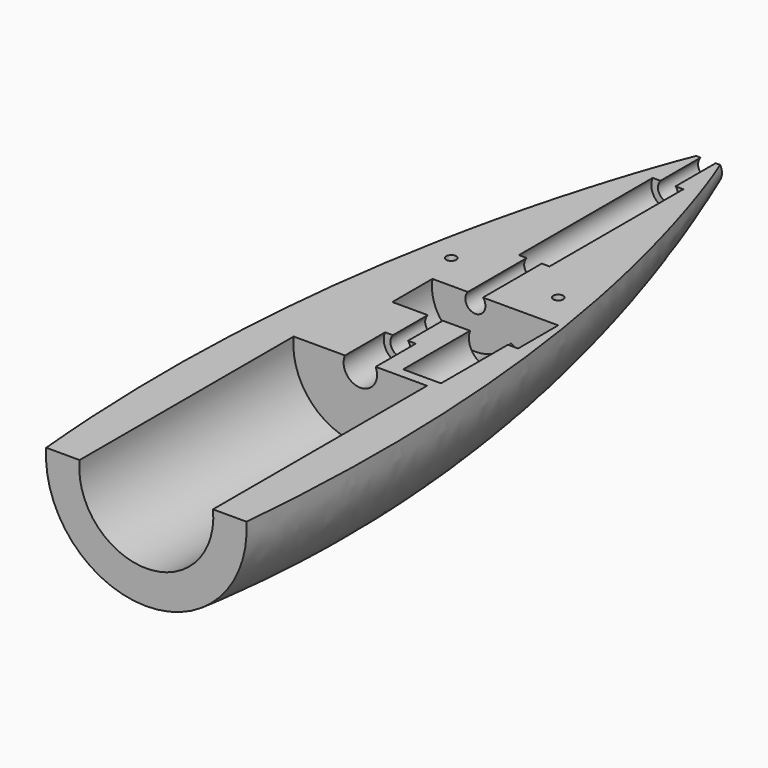
from build123d import *

# Parameters (mm, degrees)
SKETCH014_R       = 20.0437
PAD009_DEPTH      = 100
PAD_DEPTH         = 10
SKETCH006_R       = 3.009992
PAD002_DEPTH      = 100
FUSION_ROLL_ANGLE = 90
SKETCH011_R       = 5
PAD007_DEPTH      = 50
SKETCH010_R       = 5
PAD006_DEPTH      = 50
SKETCH008_R       = 13
PAD004_DEPTH      = 15
SKETCH009_R       = 9
PAD005_DEPTH      = 15
SKETCH013_R       = 6
PAD008_DEPTH      = 26
BOX_W             = 50
BOX_H             = 240
BOX_DEPTH         = 100
BOX_PITCH_ANGLE   = -90
SKETCH_R          = 4.120219
SKETCH001_R       = 27
SKETCH002_R       = 30
SKETCH015_R       = 1.5
POCKET_DEPTH      = 5


with BuildPart() as buco:
    # Sketch014 → Pad009 (new body)
    with BuildSketch(Plane.XZ.offset(40)):
        Circle(SKETCH014_R)
    extrude(amount=PAD009_DEPTH)


with BuildPart() as pad:
    # InvoluteGear → Pad (new body)
    with BuildSketch(Plane.XY):
        with BuildLine():
            Line((8.355513, -1.029758), (9.548181, -1.175965))
            add(Edge.make_bspline(
                [(9.548181, -1.175965), (9.5967, -1.178924), (9.742908, -1.18188), (9.988316, -1.135943)],
                knots=[0, 0, 0, 0, 1, 1, 1, 1], degree=3))
            add(Edge.make_bspline(
                [(9.988316, -1.135943), (10.281884, -1.080014), (10.705563, -0.954393), (11.230767, -0.676657)],
                knots=[0, 0, 0, 0, 1, 1, 1, 1], degree=3))
            ThreePointArc((11.230767, -0.676657), (11.251135, 0), (11.230767, 0.676657))
            add(Edge.make_bspline(
                [(11.230767, 0.676657), (10.705563, 0.954393), (10.281884, 1.080014), (9.988316, 1.135943)],
                knots=[0, 0, 0, 0, 1, 1, 1, 1], degree=3))
            add(Edge.make_bspline(
                [(9.988316, 1.135943), (9.742908, 1.18188), (9.5967, 1.178924), (9.548181, 1.175965)],
                knots=[0, 0, 0, 0, 1, 1, 1, 1], degree=3))
            Line((9.548181, 1.175965), (8.355513, 1.029758))
            ThreePointArc((8.355513, 1.029758), (7.956052, 1.132981), (7.734481, 1.48102))
            ThreePointArc((7.734481, 1.48102), (7.646167, 1.884611), (7.536808, 2.283014))
            ThreePointArc((7.536808, 2.283014), (7.571257, 2.694156), (7.876992, 2.971196))
            Line((7.876992, 2.971196), (9.000992, 3.395996))
            add(Edge.make_bspline(
                [(9.000992, 3.395996), (9.04533, 3.415923), (9.176163, 3.481252), (9.372113, 3.635975)],
                knots=[0, 0, 0, 0, 1, 1, 1, 1], degree=3))
            add(Edge.make_bspline(
                [(9.372113, 3.635975), (9.606064, 3.821924), (9.922834, 4.130051), (10.258808, 4.620047)],
                knots=[0, 0, 0, 0, 1, 1, 1, 1], degree=3))
            ThreePointArc((10.258808, 4.620047), (9.962385, 5.228663), (9.629892, 5.818348))
            add(Edge.make_bspline(
                [(9.629892, 5.818348), (9.035777, 5.820196), (8.602248, 5.734535), (8.316315, 5.647629)],
                knots=[0, 0, 0, 0, 1, 1, 1, 1], degree=3))
            add(Edge.make_bspline(
                [(8.316315, 5.647629), (8.077669, 5.574257), (7.949583, 5.503695), (7.907996, 5.478526)],
                knots=[0, 0, 0, 0, 1, 1, 1, 1], degree=3))
            Line((7.907996, 5.478526), (6.919887, 4.794806))
            ThreePointArc((6.919887, 4.794806), (6.518211, 4.700567), (6.160279, 4.905771))
            ThreePointArc((6.160279, 4.905771), (5.894522, 5.222091), (5.612542, 5.524038))
            ThreePointArc((5.612542, 5.524038), (5.451978, 5.904095), (5.593946, 6.291484))
            Line((5.593946, 6.291484), (6.391785, 7.189975))
            add(Edge.make_bspline(
                [(6.391785, 7.189975), (6.421783, 7.228224), (6.50727, 7.346872), (6.608872, 7.574934)],
                knots=[0, 0, 0, 0, 1, 1, 1, 1], degree=3))
            add(Edge.make_bspline(
                [(6.608872, 7.574934), (6.72961, 7.848306), (6.866903, 8.268349), (6.936681, 8.858355)],
                knots=[0, 0, 0, 0, 1, 1, 1, 1], degree=3))
            ThreePointArc((6.936681, 8.858355), (6.391373, 9.259502), (5.822925, 9.627125))
            add(Edge.make_bspline(
                [(5.822925, 9.627125), (5.296003, 9.352662), (4.951941, 9.075343), (4.739148, 8.865511)],
                knots=[0, 0, 0, 0, 1, 1, 1, 1], degree=3))
            add(Edge.make_bspline(
                [(4.739148, 8.865511), (4.561934, 8.68964), (4.481311, 8.567635), (4.456185, 8.526023)],
                knots=[0, 0, 0, 0, 1, 1, 1, 1], degree=3))
            Line((4.456185, 8.526023), (3.898999, 7.461421))
            ThreePointArc((3.898999, 7.461421), (3.587127, 7.191309), (3.17483, 7.206669))
            ThreePointArc((3.17483, 7.206669), (2.792513, 7.363253), (2.402511, 7.499571))
            ThreePointArc((2.402511, 7.499571), (2.083717, 7.761477), (2.029395, 8.170468))
            Line((2.029395, 8.170468), (2.318297, 9.336817))
            add(Edge.make_bspline(
                [(2.318297, 9.336817), (2.327083, 9.384626), (2.34764, 9.529411), (2.331619, 9.778567)],
                knots=[0, 0, 0, 0, 1, 1, 1, 1], degree=3))
            add(Edge.make_bspline(
                [(2.331619, 9.778567), (2.311484, 10.076736), (2.237847, 10.512468), (2.025443, 11.06732)],
                knots=[0, 0, 0, 0, 1, 1, 1, 1], degree=3))
            ThreePointArc((2.025443, 11.06732), (1.356174, 11.169101), (0.681996, 11.230444))
            add(Edge.make_bspline(
                [(0.681996, 11.230444), (0.342979, 10.742547), (0.167204, 10.337099), (0.076298, 10.052412)],
                knots=[0, 0, 0, 0, 1, 1, 1, 1], degree=3))
            add(Edge.make_bspline(
                [(0.076298, 10.052412), (0.001115, 9.814331), (-0.013574, 9.668833), (-0.016485, 9.620311)],
                knots=[0, 0, 0, 0, 1, 1, 1, 1], degree=3))
            Line((-0.016485, 9.620311), (-0.015104, 8.418716))
            ThreePointArc((-0.015104, 8.418716), (-0.165725, 8.034609), (-0.537933, 7.856606))
            ThreePointArc((-0.537933, 7.856606), (-0.949226, 7.817582), (-1.357907, 7.757043))
            ThreePointArc((-1.357907, 7.757043), (-1.761899, 7.840798), (-2.000066, 8.177698))
            Line((-2.000066, 8.177698), (-2.286285, 9.344707))
            add(Edge.make_bspline(
                [(-2.286285, 9.344707), (-2.300723, 9.391123), (-2.349806, 9.528877), (-2.479781, 9.742048)],
                knots=[0, 0, 0, 0, 1, 1, 1, 1], degree=3))
            add(Edge.make_bspline(
                [(-2.479781, 9.742048), (-2.636175, 9.996707), (-2.903872, 10.348308), (-3.349799, 10.740895)],
                knots=[0, 0, 0, 0, 1, 1, 1, 1], degree=3))
            ThreePointArc((-3.349799, 10.740895), (-3.989707, 10.519994), (-4.61517, 10.261003))
            add(Edge.make_bspline(
                [(-4.61517, 10.261003), (-4.688617, 9.671443), (-4.655837, 9.23075), (-4.60403, 8.936427)],
                knots=[0, 0, 0, 0, 1, 1, 1, 1], degree=3))
            add(Edge.make_bspline(
                [(-4.60403, 8.936427), (-4.559959, 8.690677), (-4.50535, 8.555018), (-4.485378, 8.510701)],
                knots=[0, 0, 0, 0, 1, 1, 1, 1], degree=3))
            Line((-4.485378, 8.510701), (-3.925746, 7.447383))
            ThreePointArc((-3.925746, 7.447383), (-3.880611, 7.037277), (-4.127463, 6.706689))
            ThreePointArc((-4.127463, 6.706689), (-4.47351, 6.480998), (-4.807244, 6.23747))
            ThreePointArc((-4.807244, 6.23747), (-5.203885, 6.123887), (-5.571336, 6.311515))
            Line((-5.571336, 6.311515), (-6.367107, 7.211837))
            add(Edge.make_bspline(
                [(-6.367107, 7.211837), (-6.401462, 7.246227), (-6.50894, 7.345392), (-6.723092, 7.473744)],
                knots=[0, 0, 0, 0, 1, 1, 1, 1], degree=3))
            add(Edge.make_bspline(
                [(-6.723092, 7.473744), (-6.979918, 7.626553), (-7.38035, 7.813474), (-7.957643, 7.953861)],
                knots=[0, 0, 0, 0, 1, 1, 1, 1], degree=3))
            ThreePointArc((-7.957643, 7.953861), (-8.421595, 7.460882), (-8.855056, 6.940891))
            add(Edge.make_bspline(
                [(-8.855056, 6.940891), (-8.646108, 6.384728), (-8.412283, 6.009748), (-8.229631, 5.773213)],
                knots=[0, 0, 0, 0, 1, 1, 1, 1], degree=3))
            add(Edge.make_bspline(
                [(-8.229631, 5.773213), (-8.076402, 5.576093), (-7.965005, 5.481352), (-7.926725, 5.451393)],
                knots=[0, 0, 0, 0, 1, 1, 1, 1], degree=3))
            Line((-7.926725, 5.451393), (-6.937047, 4.769945))
            ThreePointArc((-6.937047, 4.769945), (-6.706496, 4.427789), (-6.771441, 4.02035))
            ThreePointArc((-6.771441, 4.02035), (-6.972966, 3.659695), (-7.1553, 3.288967))
            ThreePointArc((-7.1553, 3.288967), (-7.453723, 3.004067), (-7.86628, 2.99944))
            Line((-7.86628, 2.99944), (-8.989301, 3.426823))
            add(Edge.make_bspline(
                [(-8.989301, 3.426823), (-9.035703, 3.441308), (-9.176954, 3.479167), (-9.426224, 3.493294)],
                knots=[0, 0, 0, 0, 1, 1, 1, 1], degree=3))
            add(Edge.make_bspline(
                [(-9.426224, 3.493294), (-9.724647, 3.509247), (-10.166078, 3.488669), (-10.742486, 3.344693)],
                knots=[0, 0, 0, 0, 1, 1, 1, 1], degree=3))
            ThreePointArc((-10.742486, 3.344693), (-10.924197, 2.692573), (-11.066356, 2.030704))
            add(Edge.make_bspline(
                [(-11.066356, 2.030704), (-10.62288, 1.635349), (-10.241575, 1.411985), (-9.969922, 1.287426)],
                knots=[0, 0, 0, 0, 1, 1, 1, 1], degree=3))
            add(Edge.make_bspline(
                [(-9.969922, 1.287426), (-9.742639, 1.184094), (-9.599973, 1.151974), (-9.552155, 1.143236)],
                knots=[0, 0, 0, 0, 1, 1, 1, 1], degree=3))
            Line((-9.552155, 1.143236), (-8.359154, 0.99977))
            ThreePointArc((-8.359154, 0.99977), (-7.996004, 0.803949), (-7.864163, 0.412998))
            ThreePointArc((-7.864163, 0.412998), (-7.875, 0), (-7.864163, -0.412998))
            ThreePointArc((-7.864163, -0.412998), (-7.996004, -0.803949), (-8.359154, -0.99977))
            Line((-8.359154, -0.99977), (-9.552155, -1.143236))
            add(Edge.make_bspline(
                [(-9.552155, -1.143236), (-9.599973, -1.151974), (-9.742639, -1.184094), (-9.969922, -1.287426)],
                knots=[0, 0, 0, 0, 1, 1, 1, 1], degree=3))
            add(Edge.make_bspline(
                [(-9.969922, -1.287426), (-10.241575, -1.411985), (-10.62288, -1.635349), (-11.066356, -2.030704)],
                knots=[0, 0, 0, 0, 1, 1, 1, 1], degree=3))
            ThreePointArc((-11.066356, -2.030704), (-10.924197, -2.692573), (-10.742486, -3.344693))
            add(Edge.make_bspline(
                [(-10.742486, -3.344693), (-10.166078, -3.488669), (-9.724647, -3.509247), (-9.426224, -3.493294)],
                knots=[0, 0, 0, 0, 1, 1, 1, 1], degree=3))
            add(Edge.make_bspline(
                [(-9.426224, -3.493294), (-9.176954, -3.479167), (-9.035703, -3.441308), (-8.989301, -3.426823)],
                knots=[0, 0, 0, 0, 1, 1, 1, 1], degree=3))
            Line((-8.989301, -3.426823), (-7.86628, -2.99944))
            ThreePointArc((-7.86628, -2.99944), (-7.453723, -3.004067), (-7.1553, -3.288967))
            ThreePointArc((-7.1553, -3.288967), (-6.972966, -3.659695), (-6.771441, -4.02035))
            ThreePointArc((-6.771441, -4.02035), (-6.706496, -4.427789), (-6.937047, -4.769945))
            Line((-6.937047, -4.769945), (-7.926725, -5.451393))
            add(Edge.make_bspline(
                [(-7.926725, -5.451393), (-7.965005, -5.481352), (-8.076402, -5.576093), (-8.229631, -5.773213)],
                knots=[0, 0, 0, 0, 1, 1, 1, 1], degree=3))
            add(Edge.make_bspline(
                [(-8.229631, -5.773213), (-8.412283, -6.009748), (-8.646108, -6.384728), (-8.855056, -6.940891)],
                knots=[0, 0, 0, 0, 1, 1, 1, 1], degree=3))
            ThreePointArc((-8.855056, -6.940891), (-8.421595, -7.460882), (-7.957643, -7.953861))
            add(Edge.make_bspline(
                [(-7.957643, -7.953861), (-7.38035, -7.813474), (-6.979918, -7.626553), (-6.723092, -7.473744)],
                knots=[0, 0, 0, 0, 1, 1, 1, 1], degree=3))
            add(Edge.make_bspline(
                [(-6.723092, -7.473744), (-6.50894, -7.345392), (-6.401462, -7.246227), (-6.367107, -7.211837)],
                knots=[0, 0, 0, 0, 1, 1, 1, 1], degree=3))
            Line((-6.367107, -7.211837), (-5.571336, -6.311515))
            ThreePointArc((-5.571336, -6.311515), (-5.203885, -6.123887), (-4.807244, -6.23747))
            ThreePointArc((-4.807244, -6.23747), (-4.47351, -6.480998), (-4.127463, -6.706689))
            ThreePointArc((-4.127463, -6.706689), (-3.880611, -7.037277), (-3.925746, -7.447383))
            Line((-3.925746, -7.447383), (-4.485378, -8.510701))
            add(Edge.make_bspline(
                [(-4.485378, -8.510701), (-4.50535, -8.555018), (-4.559959, -8.690677), (-4.60403, -8.936427)],
                knots=[0, 0, 0, 0, 1, 1, 1, 1], degree=3))
            add(Edge.make_bspline(
                [(-4.60403, -8.936427), (-4.655837, -9.23075), (-4.688617, -9.671443), (-4.61517, -10.261003)],
                knots=[0, 0, 0, 0, 1, 1, 1, 1], degree=3))
            ThreePointArc((-4.61517, -10.261003), (-3.989707, -10.519994), (-3.349799, -10.740895))
            add(Edge.make_bspline(
                [(-3.349799, -10.740895), (-2.903872, -10.348308), (-2.636175, -9.996707), (-2.479781, -9.742048)],
                knots=[0, 0, 0, 0, 1, 1, 1, 1], degree=3))
            add(Edge.make_bspline(
                [(-2.479781, -9.742048), (-2.349806, -9.528877), (-2.300723, -9.391123), (-2.286285, -9.344707)],
                knots=[0, 0, 0, 0, 1, 1, 1, 1], degree=3))
            Line((-2.286285, -9.344707), (-2.000066, -8.177698))
            ThreePointArc((-2.000066, -8.177698), (-1.761899, -7.840798), (-1.357907, -7.757043))
            ThreePointArc((-1.357907, -7.757043), (-0.949226, -7.817582), (-0.537933, -7.856606))
            ThreePointArc((-0.537933, -7.856606), (-0.165725, -8.034609), (-0.015104, -8.418716))
            Line((-0.015104, -8.418716), (-0.016485, -9.620311))
            add(Edge.make_bspline(
                [(-0.016485, -9.620311), (-0.013574, -9.668833), (0.001115, -9.814331), (0.076298, -10.052412)],
                knots=[0, 0, 0, 0, 1, 1, 1, 1], degree=3))
            add(Edge.make_bspline(
                [(0.076298, -10.052412), (0.167204, -10.337099), (0.342979, -10.742547), (0.681996, -11.230444)],
                knots=[0, 0, 0, 0, 1, 1, 1, 1], degree=3))
            ThreePointArc((0.681996, -11.230444), (1.356174, -11.169101), (2.025443, -11.06732))
            add(Edge.make_bspline(
                [(2.025443, -11.06732), (2.237847, -10.512468), (2.311484, -10.076736), (2.331619, -9.778567)],
                knots=[0, 0, 0, 0, 1, 1, 1, 1], degree=3))
            add(Edge.make_bspline(
                [(2.331619, -9.778567), (2.34764, -9.529411), (2.327083, -9.384626), (2.318297, -9.336817)],
                knots=[0, 0, 0, 0, 1, 1, 1, 1], degree=3))
            Line((2.318297, -9.336817), (2.029395, -8.170468))
            ThreePointArc((2.029395, -8.170468), (2.083717, -7.761477), (2.402511, -7.499571))
            ThreePointArc((2.402511, -7.499571), (2.792513, -7.363253), (3.17483, -7.206669))
            ThreePointArc((3.17483, -7.206669), (3.587127, -7.191309), (3.898999, -7.461421))
            Line((3.898999, -7.461421), (4.456185, -8.526023))
            add(Edge.make_bspline(
                [(4.456185, -8.526023), (4.481311, -8.567635), (4.561934, -8.68964), (4.739148, -8.865511)],
                knots=[0, 0, 0, 0, 1, 1, 1, 1], degree=3))
            add(Edge.make_bspline(
                [(4.739148, -8.865511), (4.951941, -9.075343), (5.296003, -9.352662), (5.822925, -9.627125)],
                knots=[0, 0, 0, 0, 1, 1, 1, 1], degree=3))
            ThreePointArc((5.822925, -9.627125), (6.391373, -9.259502), (6.936681, -8.858355))
            add(Edge.make_bspline(
                [(6.936681, -8.858355), (6.866903, -8.268349), (6.72961, -7.848306), (6.608872, -7.574934)],
                knots=[0, 0, 0, 0, 1, 1, 1, 1], degree=3))
            add(Edge.make_bspline(
                [(6.608872, -7.574934), (6.50727, -7.346872), (6.421783, -7.228224), (6.391785, -7.189975)],
                knots=[0, 0, 0, 0, 1, 1, 1, 1], degree=3))
            Line((6.391785, -7.189975), (5.593946, -6.291484))
            ThreePointArc((5.593946, -6.291484), (5.451978, -5.904095), (5.612542, -5.524038))
            ThreePointArc((5.612542, -5.524038), (5.894522, -5.222091), (6.160279, -4.905771))
            ThreePointArc((6.160279, -4.905771), (6.518211, -4.700567), (6.919887, -4.794806))
            Line((6.919887, -4.794806), (7.907996, -5.478526))
            add(Edge.make_bspline(
                [(7.907996, -5.478526), (7.949583, -5.503695), (8.077669, -5.574257), (8.316315, -5.647629)],
                knots=[0, 0, 0, 0, 1, 1, 1, 1], degree=3))
            add(Edge.make_bspline(
                [(8.316315, -5.647629), (8.602248, -5.734535), (9.035777, -5.820196), (9.629892, -5.818348)],
                knots=[0, 0, 0, 0, 1, 1, 1, 1], degree=3))
            ThreePointArc((9.629892, -5.818348), (9.962385, -5.228663), (10.258808, -4.620047))
            add(Edge.make_bspline(
                [(10.258808, -4.620047), (9.922834, -4.130051), (9.606064, -3.821924), (9.372113, -3.635975)],
                knots=[0, 0, 0, 0, 1, 1, 1, 1], degree=3))
            add(Edge.make_bspline(
                [(9.372113, -3.635975), (9.176163, -3.481252), (9.04533, -3.415923), (9.000992, -3.395996)],
                knots=[0, 0, 0, 0, 1, 1, 1, 1], degree=3))
            Line((9.000992, -3.395996), (7.876992, -2.971196))
            ThreePointArc((7.876992, -2.971196), (7.571257, -2.694156), (7.536808, -2.283014))
            ThreePointArc((7.536808, -2.283014), (7.646167, -1.884611), (7.734481, -1.48102))
            ThreePointArc((7.734481, -1.48102), (7.956052, -1.132981), (8.355513, -1.029758))
        make_face()
    extrude(amount=PAD_DEPTH)


with BuildPart() as ingranaggio_senza_buco:
    # Sketch006 → Pad002 (new body, symmetric)
    with BuildSketch(Plane(origin=(0, 0, 0), x_dir=(1, 0, 0), z_dir=(0, 0, -1))):
        Circle(SKETCH006_R)
    extrude(amount=PAD002_DEPTH, both=True)

    # Fusion: union Pad
    add(pad.part)


with BuildPart() as ingranaggio_senza_buco_1:
    # Fusion roll: moved
    add(ingranaggio_senza_buco.part.rotate(Axis((0, 0, 0), (1, 0, 0)), FUSION_ROLL_ANGLE))


with BuildPart() as ingranaggio_senza_buco_2:
    # Fusion placement: moved
    add(ingranaggio_senza_buco_1.part)

    # Cut005: cut buco
    add(buco.part, mode=Mode.SUBTRACT)


with BuildPart() as pad007:
    # Sketch011 → Pad007 (new body)
    with BuildSketch(Plane.XZ.offset(-75)):
        Circle(SKETCH011_R)
    extrude(amount=PAD007_DEPTH)


with BuildPart() as scassi_perno:
    # Sketch010 → Pad006 (new body)
    with BuildSketch(Plane.XZ.offset(25)):
        Circle(SKETCH010_R)
    extrude(amount=PAD006_DEPTH)

    # Fusion002: union Pad007
    add(pad007.part)


with BuildPart() as scasso_ruota_dentata:
    # Sketch008 → Pad004 (new body)
    with BuildSketch(Plane.XZ.offset(-3)):
        Circle(SKETCH008_R)
    extrude(amount=PAD004_DEPTH)


with BuildPart() as obj1:
    # Sketch009 → Pad005 (new body)
    with BuildSketch(Plane.XZ.offset(-3)):
        with Locations((15.997087, 9e-06)):
            Circle(SKETCH009_R)
    extrude(amount=PAD005_DEPTH)

    # Fusion001: union scasso_ruota_dentata
    add(scasso_ruota_dentata.part)


with BuildPart() as scassi_tutti:
    # Sketch013 → Pad008 (new body)
    with BuildSketch(Plane.XZ.offset(11)):
        with Locations((16.059561, 9e-06)):
            Circle(SKETCH013_R)
    extrude(amount=PAD008_DEPTH)

    # Fusion005: union scassi_perno, obj1
    add(scassi_perno.part)
    add(obj1.part)


with BuildPart() as cubo:
    # Box → Box (new body)
    with BuildSketch(Plane.XY):
        with Locations((25, 120)):
            Rectangle(BOX_W, BOX_H)
    extrude(amount=BOX_DEPTH)


with BuildPart() as cubo_1:
    # Box pitch: moved
    add(cubo.part.rotate(Axis((0, 0, 0), (0, 1, 0)), BOX_PITCH_ANGLE))


with BuildPart() as cubo_2:
    # Box placement: moved
    add(cubo_1.part.moved(Location((50, -140, 2))))


with BuildPart() as obj2:
    # Sketch → Loft section 0
    with BuildSketch(Plane.XZ.offset(-90)):
        Circle(SKETCH_R)
    # Sketch001 → Loft section 1
    with BuildSketch(Plane.XZ):
        Circle(SKETCH001_R)
    # Sketch002 → Loft section 2
    with BuildSketch(Plane.XZ.offset(120)):
        Circle(SKETCH002_R)
    loft()

    # Cut: cut Cubo
    add(cubo_2.part, mode=Mode.SUBTRACT)

    # Cut001: cut scassi_tutti
    add(scassi_tutti.part, mode=Mode.SUBTRACT)

    # Cut003: cut buco
    add(buco.part, mode=Mode.SUBTRACT)

    # Cut006: cut ingranaggio_senza_buco
    add(ingranaggio_senza_buco_2.part, mode=Mode.SUBTRACT)

    # Sketch015 → Pocket (cut)
    with BuildSketch(Plane.XY.offset(2)):
        with Locations((-16, 14)):
            Circle(SKETCH015_R)
    pocket = extrude(amount=-POCKET_DEPTH, mode=Mode.SUBTRACT)

    # Mirrored: Pocket across Sketch015 V_Axis
    add(pocket.mirror(Plane(origin=(0, 0, 2), x_dir=(0, 0, 1), z_dir=(1, 0, 0))), mode=Mode.SUBTRACT)


solid = obj2.part
